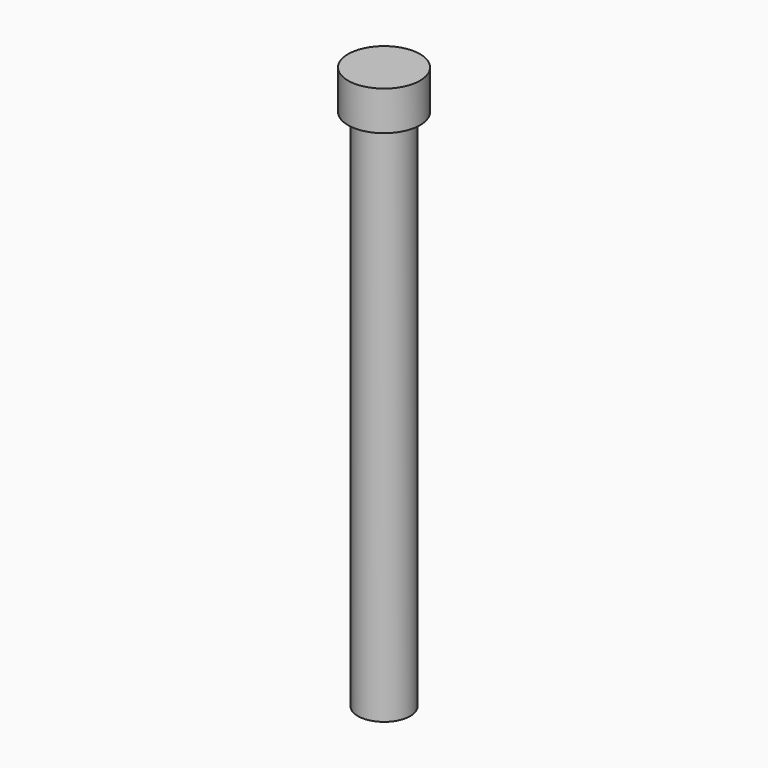
from build123d import *


with BuildPart() as part:
    # Sketch → Revolution (revolve)
    with BuildSketch(Plane.XZ):
        Polygon((0, 0), (0, 43), (2.75, 43), (2.75, 40), (2, 40), (2, 0), align=None)
    revolve(axis=Axis((0, 0, 0), (0, 0, 1)))


solid = part.part
